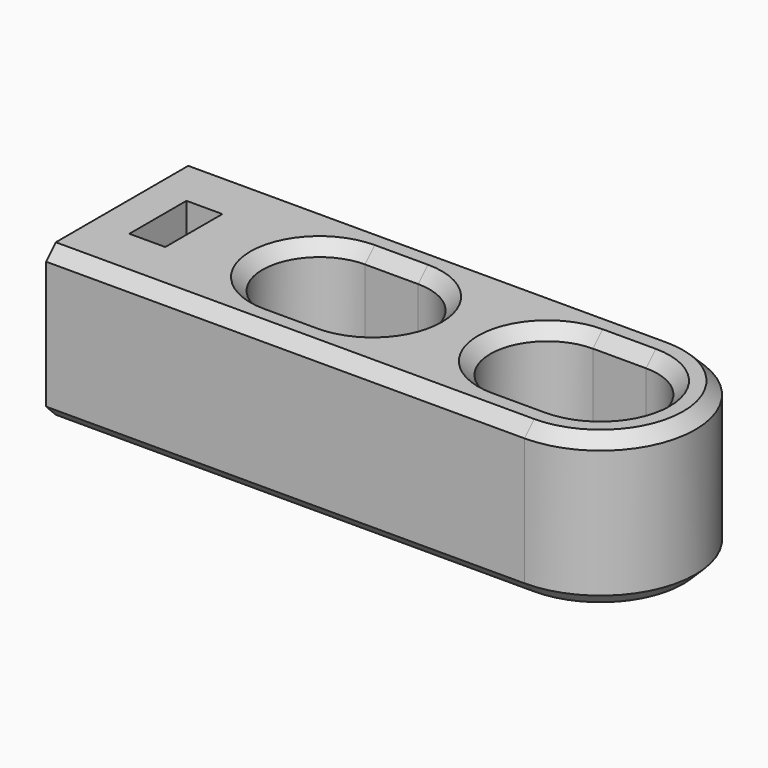
from build123d import *

# Parameters (mm, degrees)
F1_DEPTH = 6.35
F2_R     = 1.75
F3_DEPTH = 3
F5_DEPTH = 3
F6_R     = 1.75
F7_DEPTH = 3.175
F8_SIZE  = 1.016


with BuildPart() as f1:
    # F0 (on Top) → F1 (new body, symmetric)
    with BuildSketch(Plane.XY):
        with BuildLine():
            Line((40.005, 7.9375), (0, 7.9375))
            Line((0, 7.9375), (0, -7.9375))
            Line((0, -7.9375), (40.005, -7.9375))
            ThreePointArc((40.005, -7.9375), (47.9425, 0), (40.005, 7.9375))
        make_face()
        with BuildLine():
            Line((20.955, -4.7625), (16.51, -4.7625))
            ThreePointArc((16.51, -4.7625), (11.7475, 0), (16.51, 4.7625))
            Line((16.51, 4.7625), (20.955, 4.7625))
            ThreePointArc((20.955, 4.7625), (25.7175, 0), (20.955, -4.7625))
        make_face(mode=Mode.SUBTRACT)
        with BuildLine():
            Line((40.005, -4.7625), (35.56, -4.7625))
            ThreePointArc((35.56, -4.7625), (30.7975, 0), (35.56, 4.7625))
            Line((35.56, 4.7625), (40.005, 4.7625))
            ThreePointArc((40.005, 4.7625), (44.7675, 0), (40.005, -4.7625))
        make_face(mode=Mode.SUBTRACT)
    extrude(amount=F1_DEPTH, both=True)

    # F2 (on face) → F3 (cut)
    with BuildSketch(Plane(origin=(0, 0, 0), x_dir=(0, -1, 0), z_dir=(-1, 0, 0))):
        Circle(F2_R)
    extrude(amount=-F3_DEPTH, mode=Mode.SUBTRACT)

    # F4 (on face) → F5 (cut)
    with BuildSketch(Plane(origin=(3, 0, 0), x_dir=(0, -1, 0), z_dir=(-1, 0, 0))):
        Polygon((2.9845, -1.7231018784), (2.9845, 1.7231018784), (2.9845, 6.35), (-2.9845, 6.35), (-2.9845, 1.7231018784), (-2.9845, -1.7231018784), (0, -3.4462037568), align=None)
    extrude(amount=-F5_DEPTH, mode=Mode.SUBTRACT)

    # F6 (on face) → F7 (cut)
    with BuildSketch(Plane(origin=(6, 0, 0), x_dir=(0, -1, 0), z_dir=(-1, 0, 0))):
        Circle(F6_R)
    extrude(amount=-F7_DEPTH, mode=Mode.SUBTRACT)

    # F8
    f8_edges = [f1.edges().sort_by_distance(p)[0] for p in [
        (20.0025, -7.9375, 6.35),
        (20.0025, -7.9375, -6.35),
        (25.7175, 0, 6.35),
        (30.7975, 0, 6.35),
        (30.7975, 0, -6.35),
        (25.7175, 0, -6.35),
    ]]
    chamfer(f8_edges, length=F8_SIZE)


solid = f1.part
